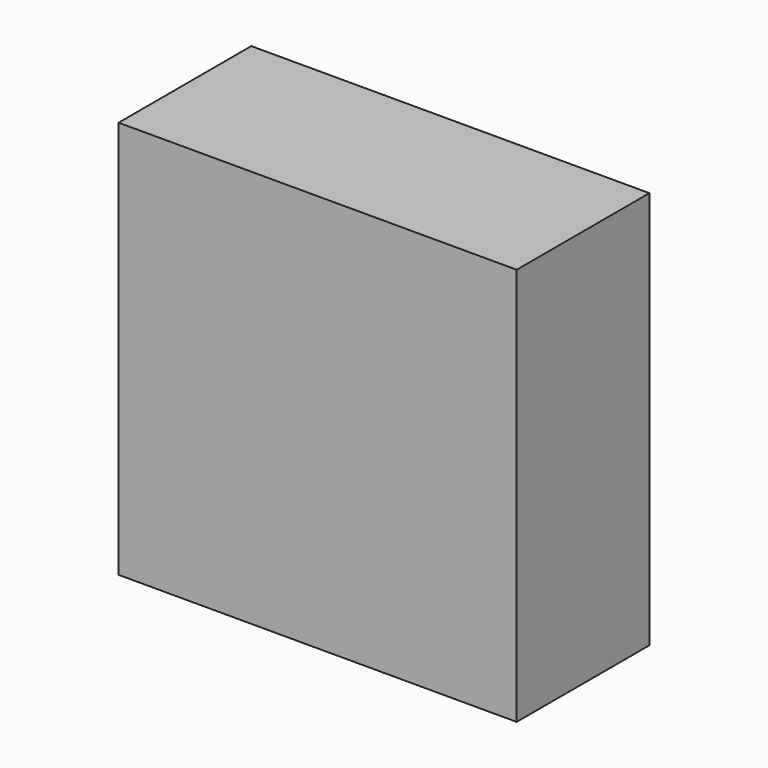
from build123d import *

# Parameters (mm, degrees)
F0_W     = 40
F0_H     = 10
F0_W_2   = 17.3429127038
F0_H_2   = 33.4276920184
F1_DEPTH = 25


with BuildPart() as f1:
    # F0 (on Front) → F1 (new body)
    with BuildSketch(Plane.XZ):
        Polygon((18.734745644, -30), (30, -30), (30, 30), (-30, 30), (-30, 22.2003255039), (-12.6570872962, 22.2003255039), (-12.6570872962, -11.2273665145), (-30, -11.2273665145), (-30, -30), (-21.265254356, -30), (-21.265254356, -20), (18.734745644, -20), align=None)
        with Locations((-1.265254356, -25)):
            Rectangle(F0_W, F0_H)
        with Locations((-21.3285436481, 5.4864794947)):
            Rectangle(F0_W_2, F0_H_2)
    extrude(amount=F1_DEPTH)


solid = f1.part
